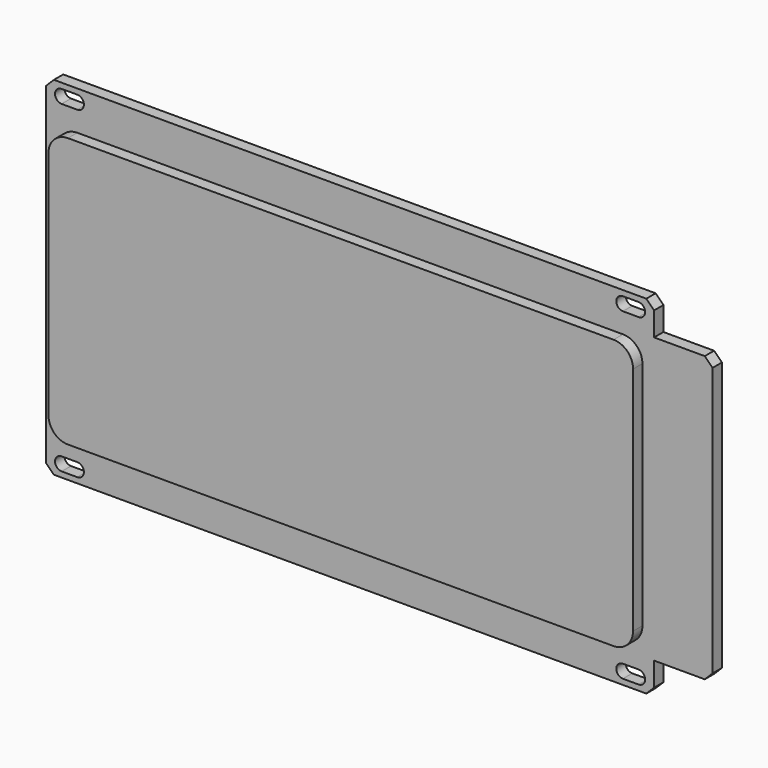
from build123d import *

# Parameters (mm, degrees)
SKETCH011_W     = 78
SKETCH011_H     = 89.2
PAD007_DEPTH    = 3
POCKET004_DEPTH = 5
CHAMFER006_SIZE = 2
SKETCH013_W     = 15
SKETCH013_H     = 73
PAD008_DEPTH    = 3
CHAMFER007_SIZE = 2
SKETCH014_W     = 150
SKETCH014_H     = 69.2
PAD009_DEPTH    = 3
FILLET002_R     = 5


with BuildPart() as part:
    # Sketch011 (on XZ_Plane007 of Origin014) → Pad007 (new body)
    with BuildSketch(Plane.XZ):
        with Locations((39, 0)):
            Rectangle(SKETCH011_W, SKETCH011_H)
    extrude(amount=PAD007_DEPTH)

    # Sketch012 (on XZ_Plane007 of Origin014) → Pocket004 (cut)
    with BuildSketch(Plane.XZ):
        with BuildLine():
            ThreePointArc((74, 39.8), (75.7, 41.5), (74, 43.2))
            Line((74, 43.2), (70, 43.2))
            ThreePointArc((70, 43.2), (68.3, 41.5), (70, 39.8))
            Line((74, 39.8), (70, 39.8))
        make_face()
    pocket004 = extrude(amount=POCKET004_DEPTH, mode=Mode.SUBTRACT)

    # Mirrored004: Pocket004 across XY
    add(pocket004.mirror(Plane.XY), mode=Mode.SUBTRACT)

    # Mirrored005: part across YZ


with BuildPart() as part_1:
    add(part.part)
    add(part.part.mirror(Plane.YZ))

    # Chamfer006
    chamfer006_edges = [part_1.edges().sort_by_distance(p)[0] for p in [
        (78, -1.5, -44.6),
        (78, -1.5, 44.6),
        (-78, -1.5, -44.6),
        (-78, -1.5, 44.6),
    ]]
    chamfer(chamfer006_edges, length=CHAMFER006_SIZE)

    # Sketch013 (on XZ_Plane007 of Origin014) → Pad008 (join)
    with BuildSketch(Plane.XZ):
        with Locations((85.5, 0)):
            Rectangle(SKETCH013_W, SKETCH013_H)
    extrude(amount=PAD008_DEPTH)

    # Chamfer007
    chamfer007_edges = [part_1.edges().sort_by_distance(p)[0] for p in [
        (93, -1.5, -36.5),
        (93, -1.5, 36.5),
    ]]
    chamfer(chamfer007_edges, length=CHAMFER007_SIZE)

    # Sketch014 (on Face5 of Chamfer007) → Pad009 (join)
    with BuildSketch(Plane.XZ.offset(3)):
        Rectangle(SKETCH014_W, SKETCH014_H)
    extrude(amount=PAD009_DEPTH)

    # Fillet002
    fillet002_edges = [part_1.edges().sort_by_distance(p)[0] for p in [
        (75, -4.5, 34.6),
        (75, -4.5, -34.6),
        (-75, -4.5, 34.6),
        (-75, -4.5, -34.6),
    ]]
    fillet(fillet002_edges, radius=FILLET002_R)


solid = part_1.part
